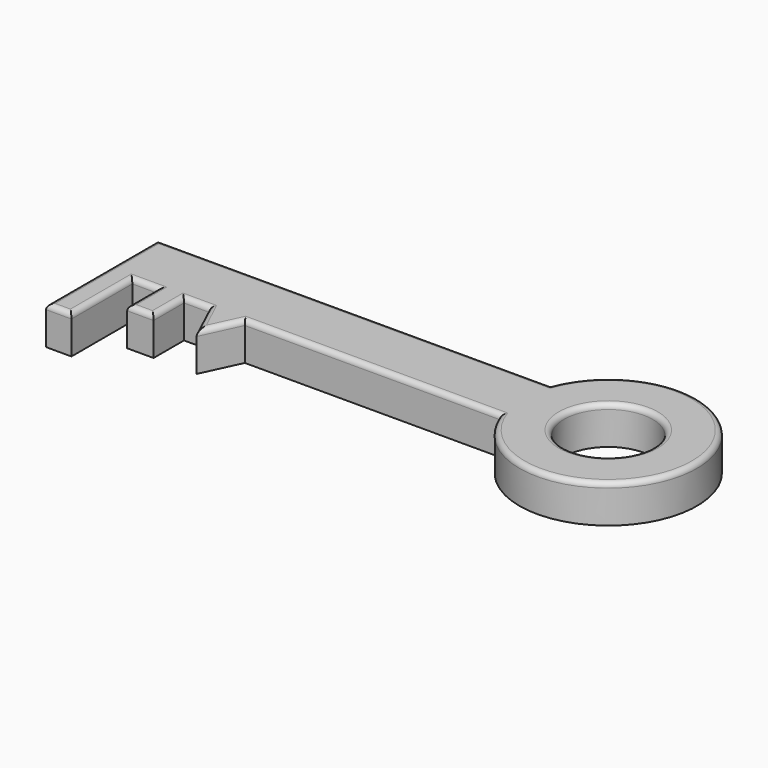
from build123d import *

# Parameters (mm, degrees)
F0_R     = 17.5
F0_W     = 10.3831700981
F0_H     = 15
F0_W_2   = 10
F0_H_2   = 30
F1_DEPTH = 15
F2_R     = 2


with BuildPart() as f1:
    # F0 (on Top) → F1 (new body)
    with BuildSketch(Plane.XY):
        with BuildLine():
            ThreePointArc((84.4103752077, 15), (152.1021172842, 27.5), (84.4103752077, 40))
            Line((84.4103752077, 40), (84.4103752077, 15))
        make_face()
        with Locations((117.1021172842, 27.5)):
            Circle(F0_R, mode=Mode.SUBTRACT)
        Polygon((-23.2064546943, -6.02999e-05), (-16.2064546943, 15), (-30.2064546943, 15), align=None)
        with Locations((-45.3980397433, 7.5)):
            Rectangle(F0_W, F0_H)
        with Locations((-65.5896247923, 0)):
            Rectangle(F0_W_2, F0_H_2)
        Polygon((84.4103752077, 40), (-70.5896247923, 40), (-70.5896247923, 15), (-60.5896247923, 15), (-50.5896247923, 15), (-40.2064546943, 15), (-30.2064546943, 15), (-16.2064546943, 15), (84.4103752077, 15), align=None)
    extrude(amount=F1_DEPTH)

    # F2
    f2_edges = [f1.edges().sort_by_distance(p)[0] for p in [
        (-70.589625, 12.5, 15),
        (6.910375, 40, 15),
        (-65.589625, -15, 15),
        (-60.589625, 0, 15),
        (-55.589625, 15, 15),
        (-50.589625, 7.5, 15),
        (99.602117, 27.5, 15),
        (152.102117, 27.5, 15),
        (34.10196, 15, 15),
        (-19.706455, 7.49997, 15),
        (-26.706455, 7.49997, 15),
        (-35.206455, 15, 15),
        (-40.206455, 7.5, 15),
        (-45.39804, 0, 15),
    ]]
    fillet(f2_edges, radius=F2_R)


solid = f1.part
